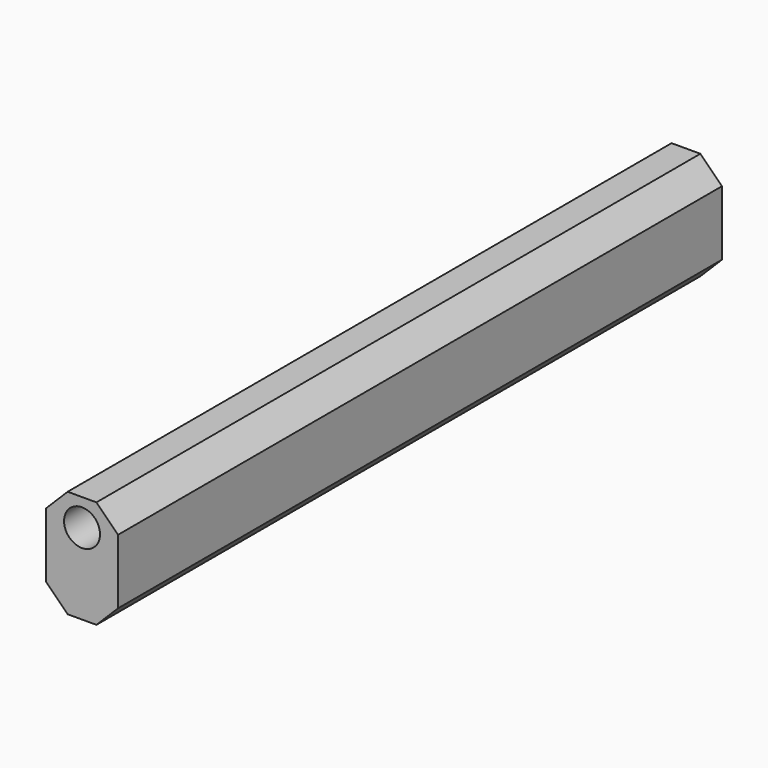
from build123d import *

# Parameters (mm, degrees)
F0_W     = 25.4
F0_H     = 38.1
F0_R     = 6.35
F1_DEPTH = 133.35
F2_SIZE  = 7.62
F3_SIZE  = 7.62
F4_SIZE  = 7.62
F5_SIZE  = 7.62


with BuildPart() as f1:
    # F0 (on Front) → F1 (new body, symmetric)
    with BuildSketch(Plane.XZ):
        Rectangle(F0_W, F0_H)
        with Locations((0, 9.525)):
            Circle(F0_R, mode=Mode.SUBTRACT)
    extrude(amount=F1_DEPTH, both=True)

    # F2
    f2_edges = [f1.edges().sort_by_distance(p)[0] for p in [
        (12.7, 0, 19.05),
    ]]
    chamfer(f2_edges, length=F2_SIZE)

    # F3
    f3_edges = [f1.edges().sort_by_distance(p)[0] for p in [
        (-12.7, 0, 19.05),
    ]]
    chamfer(f3_edges, length=F3_SIZE)

    # F4
    f4_edges = [f1.edges().sort_by_distance(p)[0] for p in [
        (-12.7, 0, -19.05),
    ]]
    chamfer(f4_edges, length=F4_SIZE)

    # F5
    f5_edges = [f1.edges().sort_by_distance(p)[0] for p in [
        (12.7, 0, -19.05),
    ]]
    chamfer(f5_edges, length=F5_SIZE)


solid = f1.part
